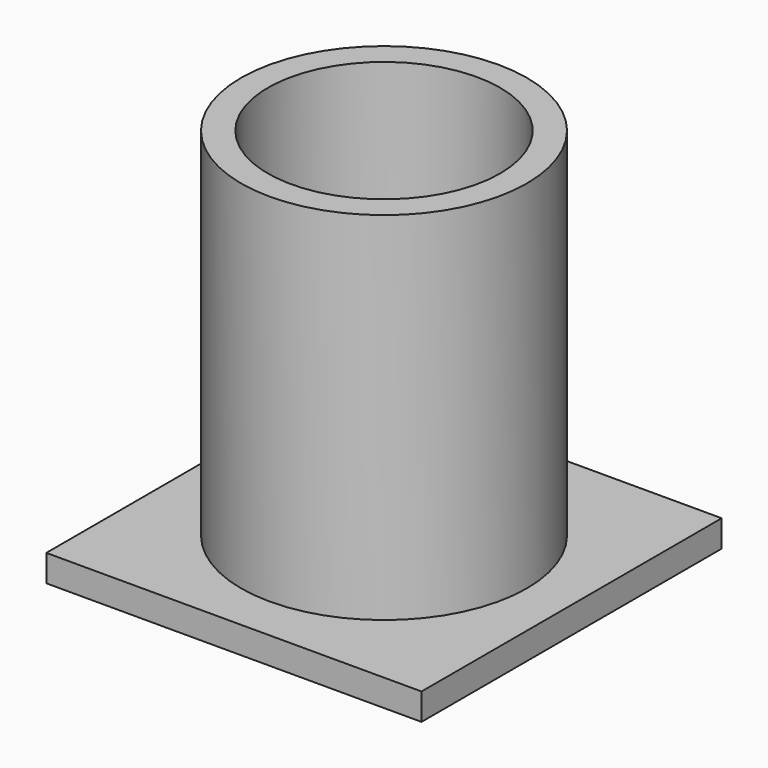
from build123d import *

# Parameters (mm, degrees)
F0_R     = 16
F0_R_2   = 13
F1_DEPTH = 39.9034
F2_W     = 42
F2_H     = 42
F2_R     = 16
F2_R_2   = 13
F3_DEPTH = 3


with BuildPart() as f1:
    # F0 (on Top) → F1 (new body)
    with BuildSketch(Plane.XY):
        Circle(F0_R)
        Circle(F0_R_2, mode=Mode.SUBTRACT)
    extrude(amount=F1_DEPTH)


with BuildPart() as f3:
    # F2 (on face) → F3 (new body)
    with BuildSketch(Plane(origin=(0, 0, 0), x_dir=(1, 0, 0), z_dir=(0, 0, -1))):
        Rectangle(F2_W, F2_H)
        Circle(F2_R, mode=Mode.SUBTRACT)
        Circle(F2_R)
        Circle(F2_R_2, mode=Mode.SUBTRACT)
        Circle(F2_R_2)
    extrude(amount=F3_DEPTH)


solid = Compound([f1.part, f3.part])
